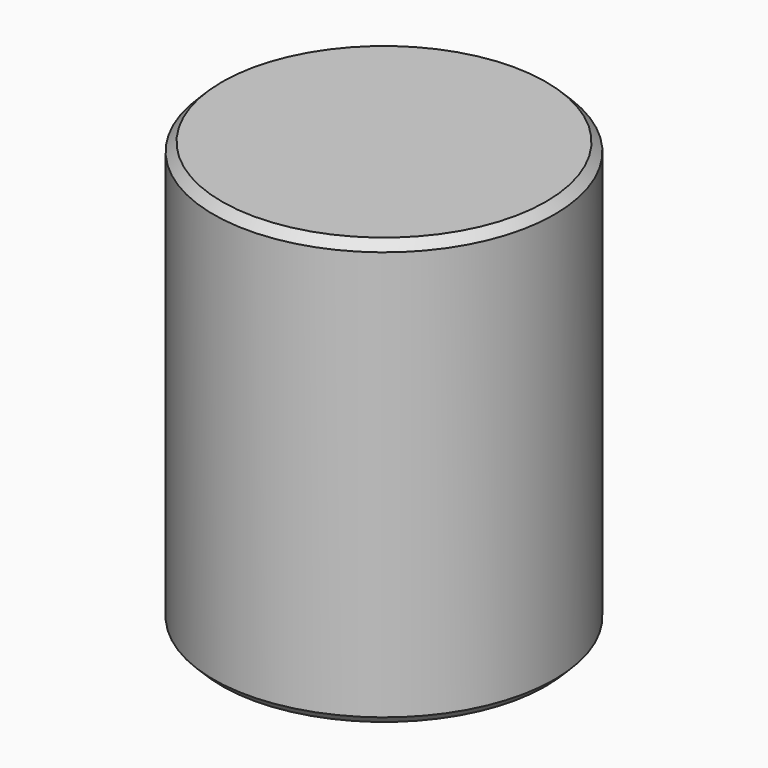
from build123d import *

# Parameters (mm, degrees)
F0_R     = 20
F1_DEPTH = 50
F2_R     = 12.7
F3_DEPTH = 43
F4_SIZE  = 1


with BuildPart() as f1:
    # F0 (on Top) → F1 (new body)
    with BuildSketch(Plane.XY):
        Circle(F0_R)
    extrude(amount=F1_DEPTH)

    # F2 (on face) → F3 (cut)
    with BuildSketch(Plane(origin=(0, 0, 0), x_dir=(1, 0, 0), z_dir=(0, 0, -1))):
        Circle(F2_R)
    extrude(amount=-F3_DEPTH, mode=Mode.SUBTRACT)

    # F4
    f4_edges = [f1.edges().sort_by_distance(p)[0] for p in [
        (-12.7, 0, 0),
        (-20, 0, 0),
        (-20, 0, 50),
    ]]
    chamfer(f4_edges, length=F4_SIZE)


solid = f1.part
